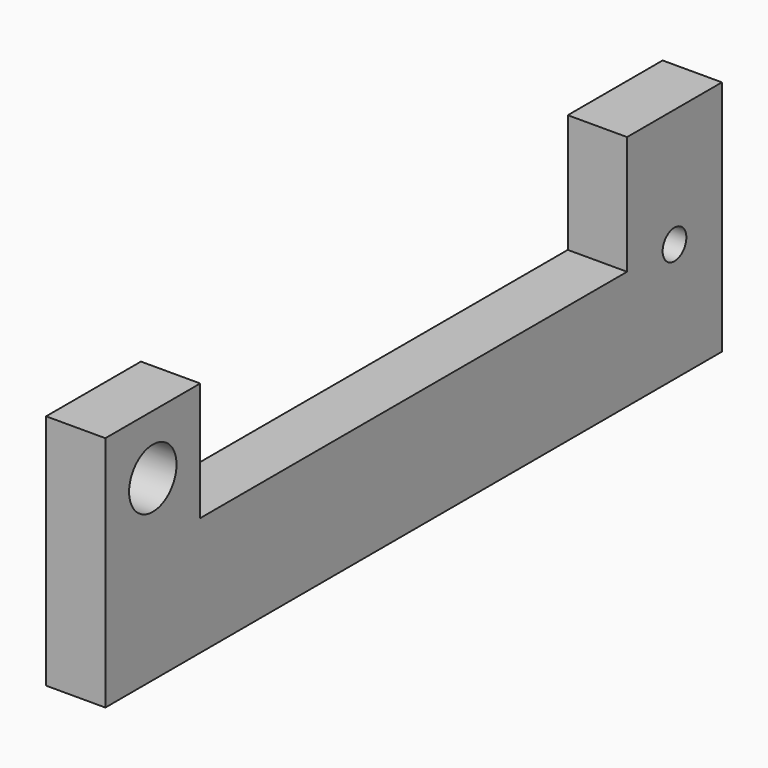
from build123d import *

# Parameters (mm, degrees)
F0_R     = 6.35
F0_R_2   = 3.175
F1_DEPTH = 12.7


with BuildPart() as f1:
    # F0 (on Right) → F1 (new body)
    with BuildSketch(Plane.YZ):
        Polygon((-87.288543, 13.716), (-112.688543, 13.716), (-112.688543, -37.084), (52.411457, -37.084), (52.411457, 13.716), (27.011457, 13.716), (27.011457, -11.684), (-87.288543, -11.684), align=None)
        with Locations((-99.988543, 1.016)):
            Circle(F0_R, mode=Mode.SUBTRACT)
        with Locations((39.711457, -11.684)):
            Circle(F0_R_2, mode=Mode.SUBTRACT)
    extrude(amount=F1_DEPTH)


solid = f1.part
